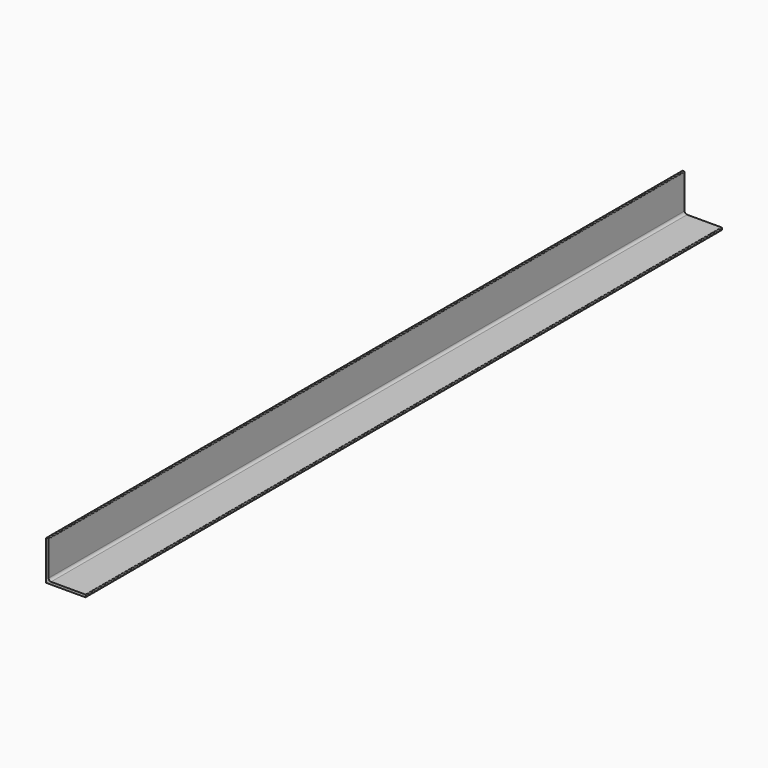
from build123d import *

# Parameters (mm, degrees)
F1_DEPTH = 1016


with BuildPart() as f1:
    # F0 (on Front) → F1 (new body)
    with BuildSketch(Plane.XZ):
        with BuildLine():
            Line((0, 50.038), (0, 0))
            Line((0, 0), (50.038, 0))
            ThreePointArc((50.038, 0), (50.576815, 0.223185), (50.8, 0.762))
            Line((50.8, 0.762), (50.8, 2.413))
            ThreePointArc((50.8, 2.413), (50.576815, 2.951815), (50.038, 3.175))
            Line((50.038, 3.175), (6.35, 3.175))
            ThreePointArc((6.35, 3.175), (4.104936, 4.104936), (3.175, 6.35))
            Line((3.175, 6.35), (3.175, 50.038))
            ThreePointArc((3.175, 50.038), (2.951815, 50.576815), (2.413, 50.8))
            Line((2.413, 50.8), (0.762, 50.8))
            ThreePointArc((0.762, 50.8), (0.223185, 50.576815), (0, 50.038))
        make_face()
    extrude(amount=F1_DEPTH)


solid = f1.part
